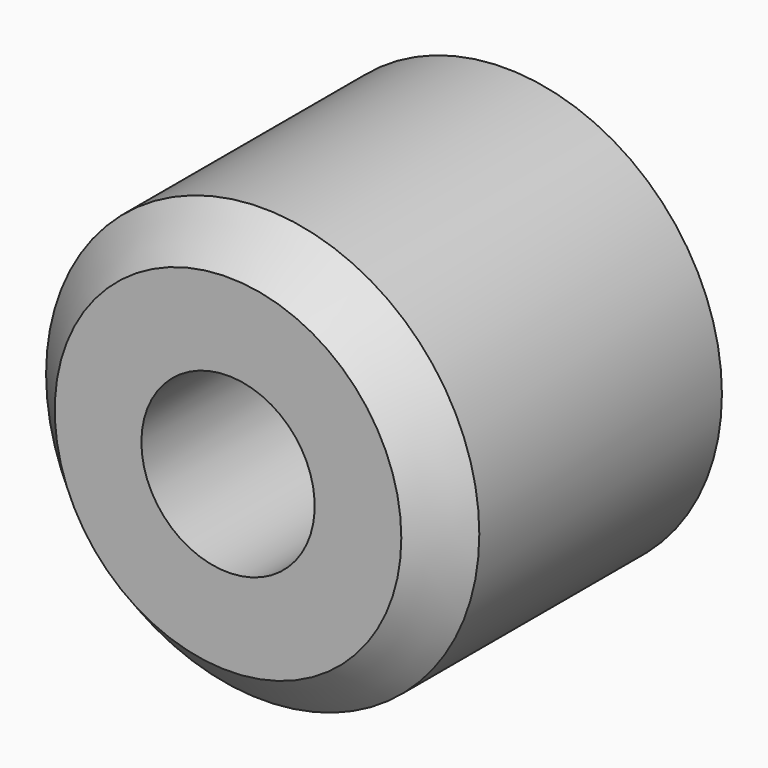
from build123d import *

# Parameters (mm, degrees)
F0_R     = 5
F1_DEPTH = 8
F3_D     = 4
F4_SIZE  = 1


with BuildPart() as f1:
    # F0 (on Front) → F1 (new body)
    with BuildSketch(Plane.XZ):
        Circle(F0_R)
    extrude(amount=F1_DEPTH)

    # F3 (through all)
    with Locations(Plane.XZ.offset(8)):
        with Locations((0, 0)):
            Hole(F3_D / 2)

    # F4
    f4_edges = [f1.edges().sort_by_distance(p)[0] for p in [
        (-5, -8, 0),
    ]]
    chamfer(f4_edges, length=F4_SIZE)


solid = f1.part
